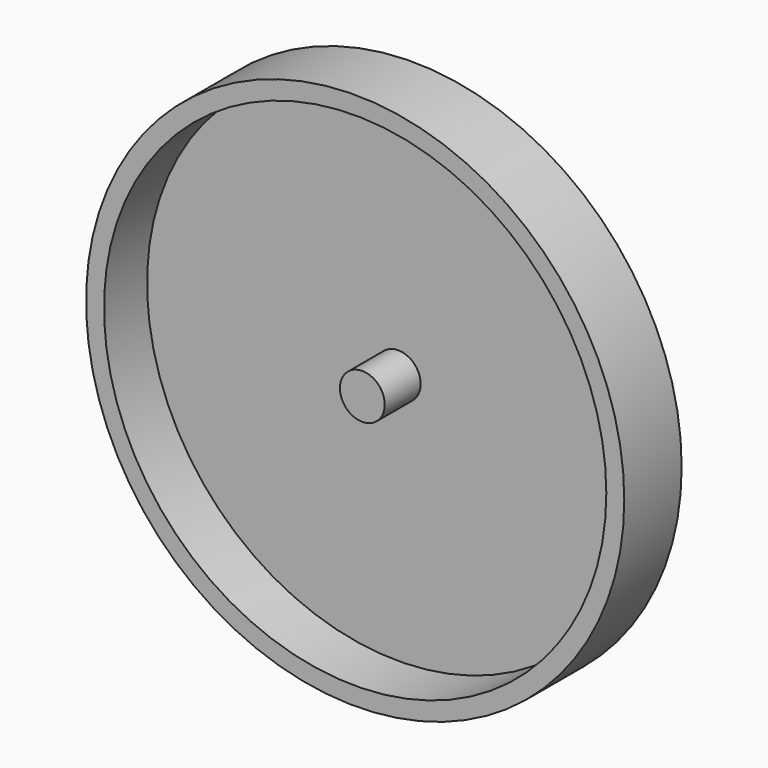
from build123d import *

# Parameters (mm, degrees)
F0_R     = 19.05
F1_DEPTH = 5.08
F2_T     = -1.27
F3_R     = 1.5875
F4_DEPTH = 3.175


with BuildPart() as f1:
    # F0 (on Front) → F1 (new body)
    with BuildSketch(Plane.XZ):
        Circle(F0_R)
    extrude(amount=F1_DEPTH)

    # F2
    f2_openings = [f1.faces().sort_by_distance(p)[0] for p in [
        (0, -5.08, 0),
    ]]
    offset(amount=F2_T, openings=f2_openings)

    # F3 (on face) → F4 (join)
    with BuildSketch(Plane.XZ.offset(1.27)):
        Circle(F3_R)
    extrude(amount=F4_DEPTH)


solid = f1.part
